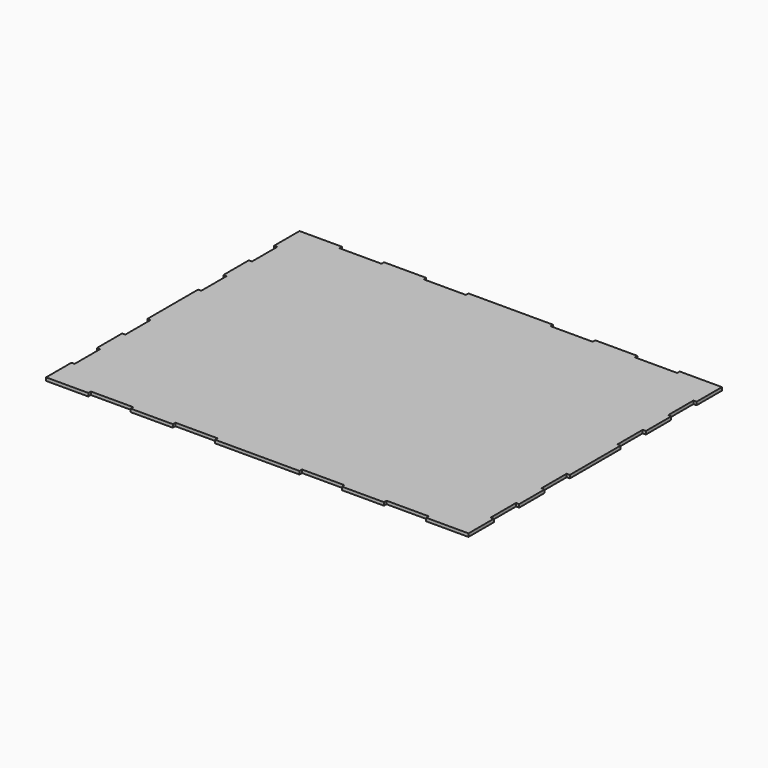
from build123d import *

# Parameters (mm, degrees)
F1_DEPTH = 3


with BuildPart() as f1:
    # F0 (on Top) → F1 (new body)
    with BuildSketch(Plane.XY):
        Polygon((-200, -150), (-160, -150), (-160, -147), (-120, -147), (-120, -150), (-80, -150), (-80, -147), (-40, -147), (-40, -150), (40, -150), (40, -147), (80, -147), (80, -150), (120, -150), (120, -147), (160, -147), (160, -150), (200, -150), (200, -120), (197, -120), (197, -90), (200, -90), (200, -60), (197, -60), (197, -30), (200, -30), (200, 30), (197, 30), (197, 60), (200, 60), (200, 90), (197, 90), (197, 120), (200, 120), (200, 150), (160, 150), (160, 147), (120, 147), (120, 150), (80, 150), (80, 147), (40, 147), (40, 150), (-40, 150), (-40, 147), (-80, 147), (-80, 150), (-120, 150), (-120, 147), (-160, 147), (-160, 150), (-200, 150), (-200, 120), (-197, 120), (-197, 90), (-200, 90), (-200, 60), (-197, 60), (-197, 30), (-200, 30), (-200, -30), (-197, -30), (-197, -60), (-200, -60), (-200, -90), (-197, -90), (-197, -120), (-200, -120), align=None)
    extrude(amount=F1_DEPTH)


solid = f1.part
